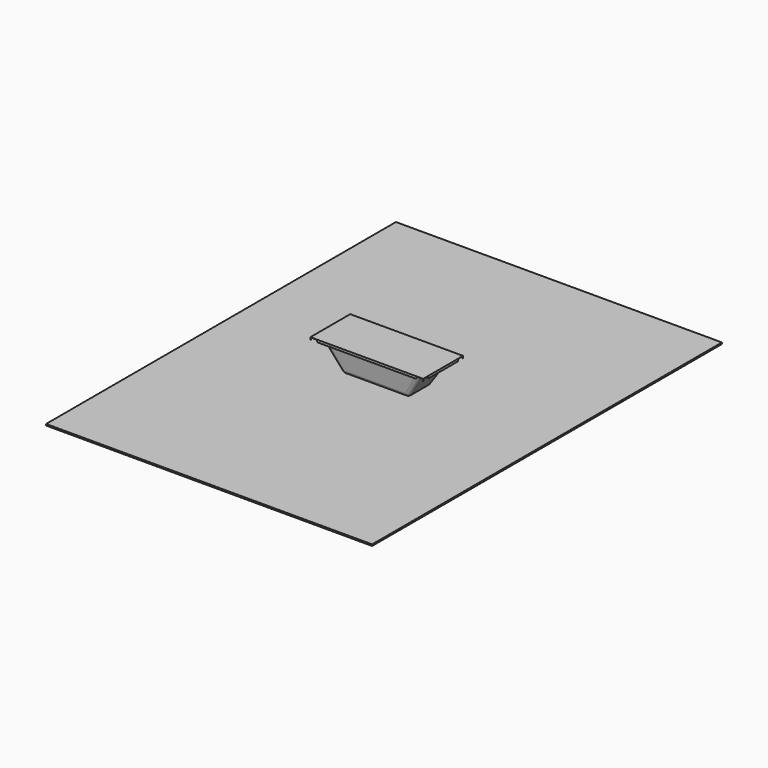
from build123d import *

# Parameters (mm, degrees)
F0_W          = 1700
F0_H          = 430
F1_DEPTH      = 375
F1_DEPTH_BACK = 375
F3_DEPTH      = 750.001
F5_DEPTH      = 1700.001
F6_R          = 55
F8_W          = 4912.9977226257
F8_H          = 6589.7264480591
F9_DEPTH      = 22


with BuildPart() as f1:
    # F0 (on Front) → F1 (new body, two sides)
    with BuildSketch(Plane.XZ) as f1_sk:
        with Locations((40.9229137003, -62.3736318606)):
            Rectangle(F0_W, F0_H)
    extrude(amount=F1_DEPTH)
    extrude(f1_sk.sketch, amount=-F1_DEPTH_BACK)

    # F2 (on face) → F3 (cut, through all)
    with BuildSketch(Plane.XZ.offset(375)):
        Polygon((-806.0770862997, 117.6263681394), (-809.0770862997, 117.6263681394), (-809.0770862997, -277.3736318606), (-449.0770862997, -277.3736318606), (-721.0770862997, 149.6263681394), (-806.0770862997, 149.6263681394), align=None)
        Polygon((802.9229137003, 149.6263681394), (530.9229137003, -277.3736318606), (890.9229137003, -277.3736318606), (890.9229137003, 117.6263681394), (887.9229137003, 117.6263681394), (887.9229137003, 149.6263681394), align=None)
    extrude(amount=-F3_DEPTH, mode=Mode.SUBTRACT)

    # F4 (on face) → F5 (cut, through all)
    with BuildSketch(Plane.YZ.offset(890.9229137003)):
        Polygon((-372, 117.6263681394), (-375, 117.6263681394), (-375, -277.3736318606), (-215, -277.3736318606), (-287, 149.6263681394), (-372, 149.6263681394), align=None)
        Polygon((375, -277.3736318606), (375, 117.6263681394), (372, 117.6263681394), (372, 149.6263681394), (287, 149.6263681394), (215, -277.3736318606), align=None)
    extrude(amount=-F5_DEPTH, mode=Mode.SUBTRACT)

    # F6
    f6_edges = [f1.edges().sort_by_distance(p)[0] for p in [
        (-449.077086, 0, -277.373632),
        (40.922914, 215, -277.373632),
        (530.922914, 0, -277.373632),
        (40.922914, -215, -277.373632),
        (-585.077086, -251, -63.873632),
        (-585.077086, 251, -63.873632),
        (666.922914, -251, -63.873632),
        (666.922914, 251, -63.873632),
    ]]
    fillet(f6_edges, radius=F6_R)


with BuildPart() as f9:
    # F8 (on offset) → F9 (new body)
    with BuildSketch(Plane(origin=(0, 0, -347.3736318606), x_dir=(1, 0, 0), z_dir=(0, 0, -1))):
        Rectangle(F8_W, F8_H)
    extrude(amount=F9_DEPTH)


solid = Compound([f1.part, f9.part])
